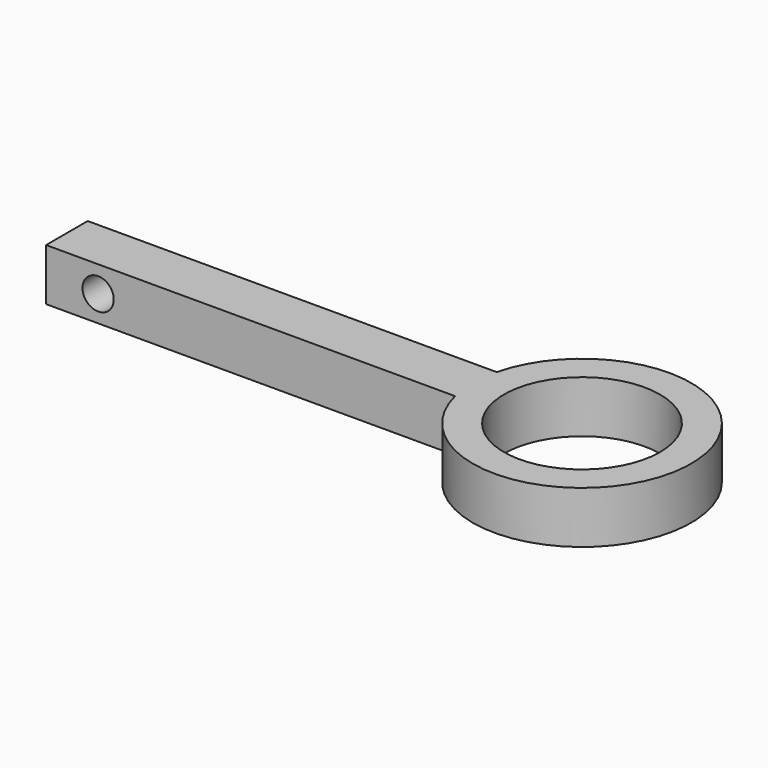
from build123d import *

# Parameters (mm, degrees)
F0_R     = 15
F1_DEPTH = 10
F2_R     = 3
F3_DEPTH = 25


with BuildPart() as f1:
    # F0 (on Top) → F1 (new body)
    with BuildSketch(Plane.XY):
        with BuildLine():
            Line((4.306584, 5), (-74.297338, 5))
            Line((-74.297338, 5), (-74.297338, -5))
            Line((-74.297338, -5), (4.306584, -5))
            ThreePointArc((4.306584, -5), (45.702662, 0), (4.306584, 5))
        make_face()
        with Locations((24.702662, 0)):
            Circle(F0_R, mode=Mode.SUBTRACT)
    extrude(amount=F1_DEPTH)

    # F2 (on face) → F3 (cut)
    with BuildSketch(Plane.XZ.offset(5)):
        with Locations((-64.297338, 5)):
            Circle(F2_R)
    extrude(amount=-F3_DEPTH, mode=Mode.SUBTRACT)


solid = f1.part
